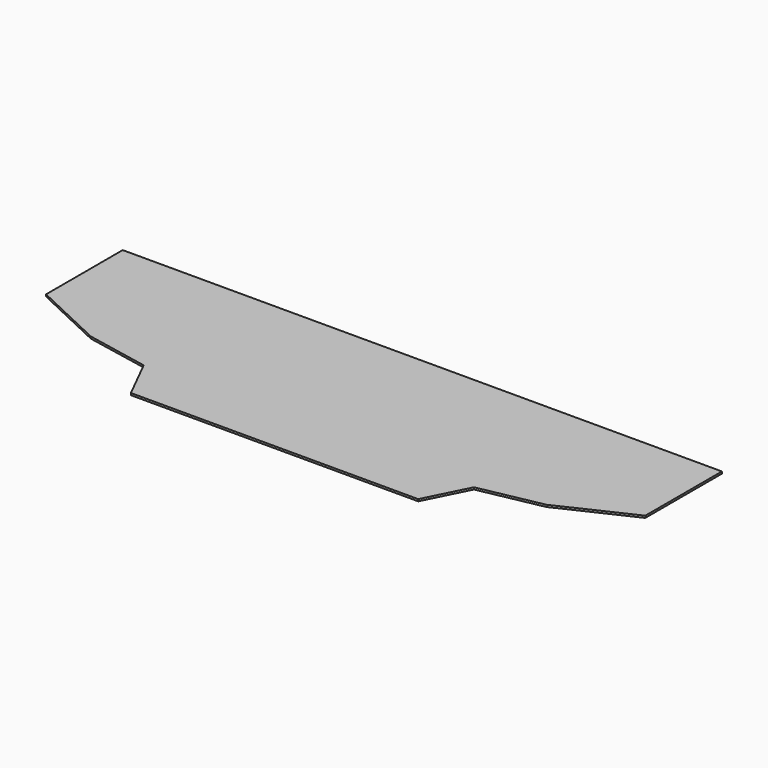
from build123d import *

# Parameters (mm, degrees)
F1_DEPTH = 6.35


with BuildPart() as f1:
    # F0 (on Top) → F1 (new body)
    with BuildSketch(Plane.XY):
        Polygon((-525.438485, -16.130894), (-457.2, -152.4), (0, -152.4), (0, 435.37514), (-953.46813, 435.37514), (-953.46813, 130.57514), (-724.837154, 22.989569), align=None)
        Polygon((-525.438485, -16.130894), (-457.2, -152.4), (0, -152.4), (0, 435.37514), (-953.46813, 435.37514), (-953.46813, 130.57514), (-724.837154, 22.989569), align=None)
    extrude(amount=F1_DEPTH)

    # F2: F1 across plane


with BuildPart() as f1_1:
    add(f1.part)
    add(f1.part.mirror(Plane.YZ))


solid = f1_1.part
